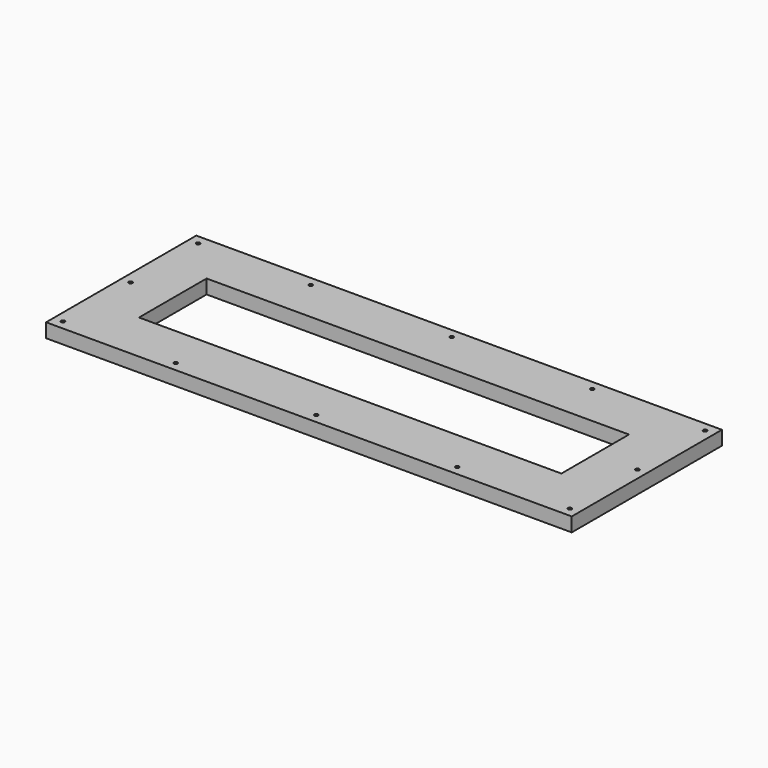
from build123d import *

# Parameters (mm, degrees)
F0_W     = 711.2
F0_H     = 254
F0_W_2   = 571.5
F0_H_2   = 114.3
F1_DEPTH = 19.05
F3_D     = 5.0038
F3_DEPTH = 19.05
F3_TIP   = 1.5032931827
F5_D     = 8.001
F5_DEPTH = 14.224
F5_TIP   = 2.4037429064


with BuildPart() as f1:
    # F0 (on Top) → F1 (new body)
    with BuildSketch(Plane.XY):
        Rectangle(F0_W, F0_H)
        Rectangle(F0_W_2, F0_H_2, mode=Mode.SUBTRACT)
    extrude(amount=F1_DEPTH)

    # F3
    with Locations(Plane.XY.offset(19.05)):
        with Locations((-342.9, 114.3), (-342.9, 0), (-190.5, 114.3), (190.5, 114.3), (342.9, 114.3), (342.9, 0), (342.9, -114.3), (190.5, -114.3), (-190.5, -114.3), (-342.9, -114.3), (0, 114.3), (0, -114.3)):
            Hole(F3_D / 2, depth=F3_DEPTH)
            with Locations((0, 0, -(F3_DEPTH + F3_TIP / 2))):  # 118° drill point
                Cone(0, F3_D / 2, F3_TIP, mode=Mode.SUBTRACT)

    # F5
    with Locations(Plane(origin=(0, 0, 0), x_dir=(1, 0, 0), z_dir=(0, 0, -1))):
        with Locations((-228.6, 66.675), (-228.6, -66.675), (228.6, 66.675), (228.6, -66.675)):
            Hole(F5_D / 2, depth=F5_DEPTH)
            with Locations((0, 0, -(F5_DEPTH + F5_TIP / 2))):  # 118° drill point
                Cone(0, F5_D / 2, F5_TIP, mode=Mode.SUBTRACT)


solid = f1.part
